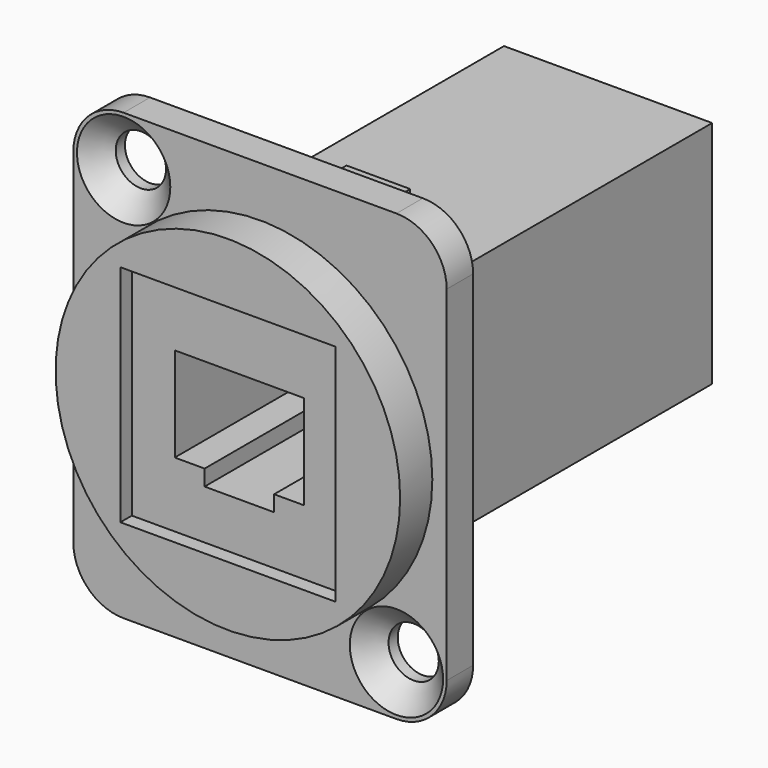
from build123d import *

# Parameters (mm, degrees)
F0_R      = 1.75
F0_R_2    = 12
F1_DEPTH  = 2.3
F2_DEPTH  = 5.1
F3_W      = 14.9775519967
F3_H      = 15.6408976763
F3_W_2    = 4.8427809961
F3_H_2    = 1.104
F4_DEPTH  = 1
F5_DEPTH  = 3
F6_SIZE   = 1.5
F7_W      = 14.5
F7_H      = 16
F8_DEPTH  = 28
F9_W      = 4.4338763691
F9_H      = 4.8907462656
F10_DEPTH = 8
F11_DEPTH = 30.1


with BuildPart() as f1:
    # F0 (on Front) → F1 (new body)
    with BuildSketch(Plane.XZ):
        with BuildLine():
            ThreePointArc((13, 12), (11.9748737342, 14.4748737342), (9.5, 15.5))
            Line((9.5, 15.5), (-9.5, 15.5))
            ThreePointArc((-9.5, 15.5), (-11.9748737342, 14.4748737342), (-13, 12))
            Line((-13, 12), (-13, -12))
            ThreePointArc((-13, -12), (-11.9748737342, -14.4748737342), (-9.5, -15.5))
            Line((-9.5, -15.5), (9.5, -15.5))
            ThreePointArc((9.5, -15.5), (11.9748737342, -14.4748737342), (13, -12))
            Line((13, -12), (13, 12))
        make_face()
        with Locations((9.5, -12)):
            Circle(F0_R, mode=Mode.SUBTRACT)
        with Locations((-9.5, 12)):
            Circle(F0_R, mode=Mode.SUBTRACT)
        Circle(F0_R_2, mode=Mode.SUBTRACT)
        Circle(F0_R_2)
    extrude(amount=F1_DEPTH)

    # F0 (on Front) → F2 (join)
    with BuildSketch(Plane.XZ):
        Circle(F0_R_2)
    extrude(amount=F2_DEPTH)

    # F3 (on face) → F4 (cut)
    with BuildSketch(Plane.XZ.offset(5.1)):
        Rectangle(F3_W, F3_H)
        Polygon((-4.5, 3.2868520357), (4.5, 3.2868520357), (4.5, -3.2868520357), (2.4213904981, -3.2868520357), (2.4213904981, -4.3908520357), (-2.4213904981, -4.3908520357), (-2.4213904981, -3.2868520357), (-4.5, -3.2868520357), align=None, mode=Mode.SUBTRACT)
        Polygon((4.5, -3.2868520357), (4.5, 3.2868520357), (-4.5, 3.2868520357), (-4.5, -3.2868520357), (-2.4213904981, -3.2868520357), (-2.4213904981, -2.1828520357), (2.4213904981, -2.1828520357), (2.4213904981, -3.2868520357), align=None)
        with Locations((0, -2.7348520357)):
            Rectangle(F3_W_2, F3_H_2)
        with Locations((0, -3.8388520357)):
            Rectangle(F3_W_2, F3_H_2)
    extrude(amount=-F4_DEPTH, mode=Mode.SUBTRACT)

    # F3 (on face) → F5 (cut)
    with BuildSketch(Plane.XZ.offset(5.1)):
        Polygon((4.5, -3.2868520357), (4.5, 3.2868520357), (-4.5, 3.2868520357), (-4.5, -3.2868520357), (-2.4213904981, -3.2868520357), (-2.4213904981, -2.1828520357), (2.4213904981, -2.1828520357), (2.4213904981, -3.2868520357), align=None)
        with Locations((0, -2.7348520357)):
            Rectangle(F3_W_2, F3_H_2)
        with Locations((0, -3.8388520357)):
            Rectangle(F3_W_2, F3_H_2)
    extrude(amount=-F5_DEPTH, mode=Mode.SUBTRACT)

    # F6
    f6_edges = [f1.edges().sort_by_distance(p)[0] for p in [
        (-11.25, -2.3, 12),
        (7.75, -2.3, -12),
    ]]
    chamfer(f6_edges, length=F6_SIZE)

    # F7 (on face) → F8 (join)
    with BuildSketch(Plane(origin=(0, 0, 0), x_dir=(-1, 0, 0), z_dir=(0, 1, 0))):
        Rectangle(F7_W, F7_H)
    extrude(amount=F8_DEPTH)

    # F9 (on face) → F10 (join)
    with BuildSketch(Plane(origin=(0, 0, 0), x_dir=(-1, 0, 0), z_dir=(0, 1, 0))):
        with Locations((0, 8)):
            Rectangle(F9_W, F9_H)
    extrude(amount=F10_DEPTH)

    # F11 (cut, through all): a face of the model
    f11_faces = [f1.faces().sort_by_distance(p)[0] for p in [
        (0, -2.1, -0.3181557698),
    ]]
    extrude(f11_faces, amount=-F11_DEPTH, mode=Mode.SUBTRACT)


solid = f1.part
